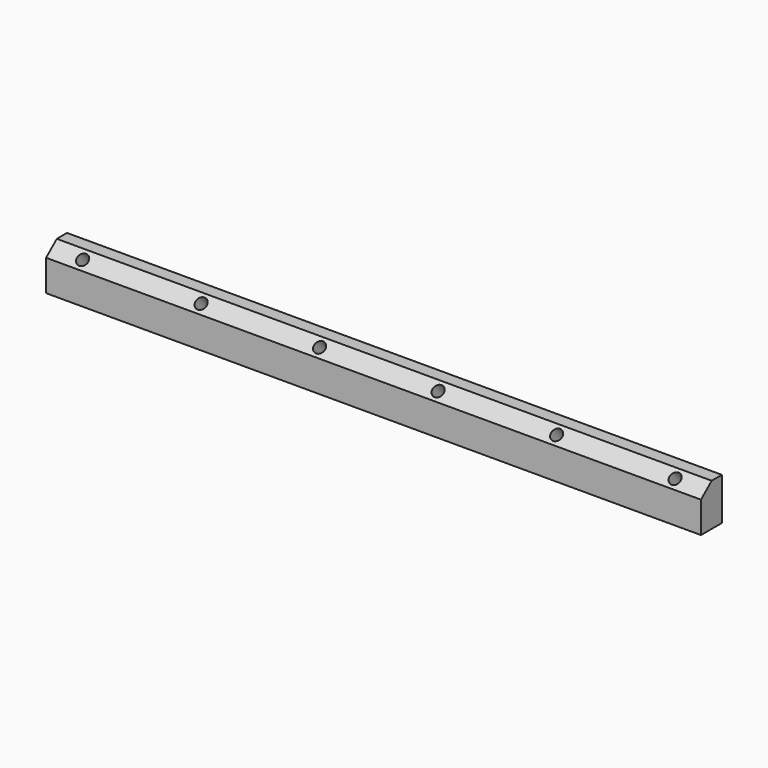
from build123d import *

# Parameters (mm, degrees)
F1_DEPTH = 525
F2_R     = 4.5
F3_DEPTH = 15


with BuildPart() as f1:
    # F0 (on Right) → F1 (new body)
    with BuildSketch(Plane.YZ):
        Polygon((-21, 0), (0, 0), (0, 34), (-10.274218, 34), (-21, 25), align=None)
    extrude(amount=F1_DEPTH)

    # F2 (on face) → F3 (cut)
    with BuildSketch(Plane(origin=(0, -20.986791, 25.011084), x_dir=(1, 0, 0), z_dir=(0, -0.642788, 0.766044))):
        with Locations((500, 6.983514)):
            Circle(F2_R)
        with Locations((405, 6.983514)):
            Circle(F2_R)
        with Locations((310, 6.983514)):
            Circle(F2_R)
        with Locations((215, 6.983514)):
            Circle(F2_R)
        with Locations((120, 6.983514)):
            Circle(F2_R)
        with Locations((25, 6.983514)):
            Circle(F2_R)
    extrude(amount=-F3_DEPTH, mode=Mode.SUBTRACT)


solid = f1.part
